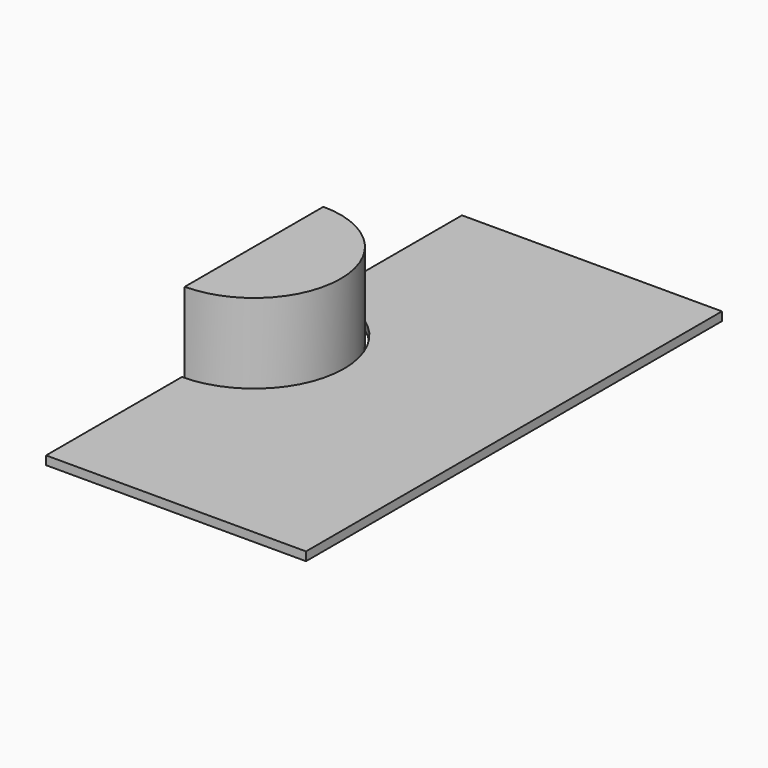
from build123d import *

# Parameters (mm, degrees)
F1_ANGLE = 180
F2_DEPTH = 50
F4_DEPTH = 5


with BuildPart() as f1:
    # F0 (on Right) → F1 (revolve)
    with BuildSketch(Plane.YZ):
        with BuildLine():
            Line((50, 0), (0, 0))
            Line((0, 0), (0, -50))
            ThreePointArc((0, -50), (35.355339, -35.355339), (50, 0))
        make_face()
    revolve(axis=Axis((0, 0, -25), (0, 0, -1)), revolution_arc=F1_ANGLE)

    # F1_face (on face) → F2 (join)
    with BuildSketch(Plane(origin=(21.220659, 0, 0), x_dir=(1, 0, 0), z_dir=(0, 0, 1))):
        with BuildLine():
            ThreePointArc((-21.220659, -50), (28.779341, 0), (-21.220659, 50))
            Line((-21.220659, 50), (-21.220659, -50))
        make_face()
    extrude(amount=F2_DEPTH)


with BuildPart() as f4:
    # F3 (on Top) → F4 (new body)
    with BuildSketch(Plane.XY):
        with BuildLine():
            ThreePointArc((0, 52), (52, 0), (0, -52))
            Line((0, -52), (0, -150))
            Line((0, -150), (150, -150))
            Line((150, -150), (150, 150))
            Line((150, 150), (0, 150))
            Line((0, 150), (0, 52))
        make_face()
    extrude(amount=F4_DEPTH)


solid = Compound([f1.part, f4.part])
